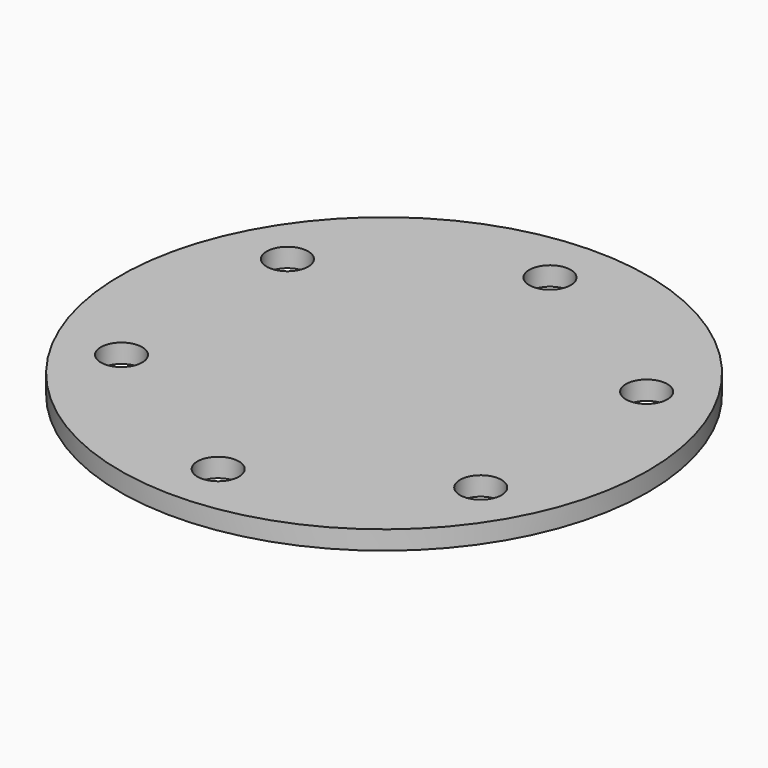
from build123d import *

# Parameters (mm, degrees)
F0_R     = 88.9
F0_R_2   = 6.985
F1_DEPTH = 6.35


with BuildPart() as f1:
    # F0 (on Top) → F1 (new body)
    with BuildSketch(Plane.XY):
        Circle(F0_R)
        with Locations((-60.491874, -34.925)):
            Circle(F0_R_2, mode=Mode.SUBTRACT)
        with Locations((0, -69.85)):
            Circle(F0_R_2, mode=Mode.SUBTRACT)
        with Locations((60.491874, -34.925)):
            Circle(F0_R_2, mode=Mode.SUBTRACT)
        with Locations((-60.491874, 34.925)):
            Circle(F0_R_2, mode=Mode.SUBTRACT)
        with Locations((60.491874, 34.925)):
            Circle(F0_R_2, mode=Mode.SUBTRACT)
        with Locations((0, 69.85)):
            Circle(F0_R_2, mode=Mode.SUBTRACT)
    extrude(amount=F1_DEPTH)


solid = f1.part
